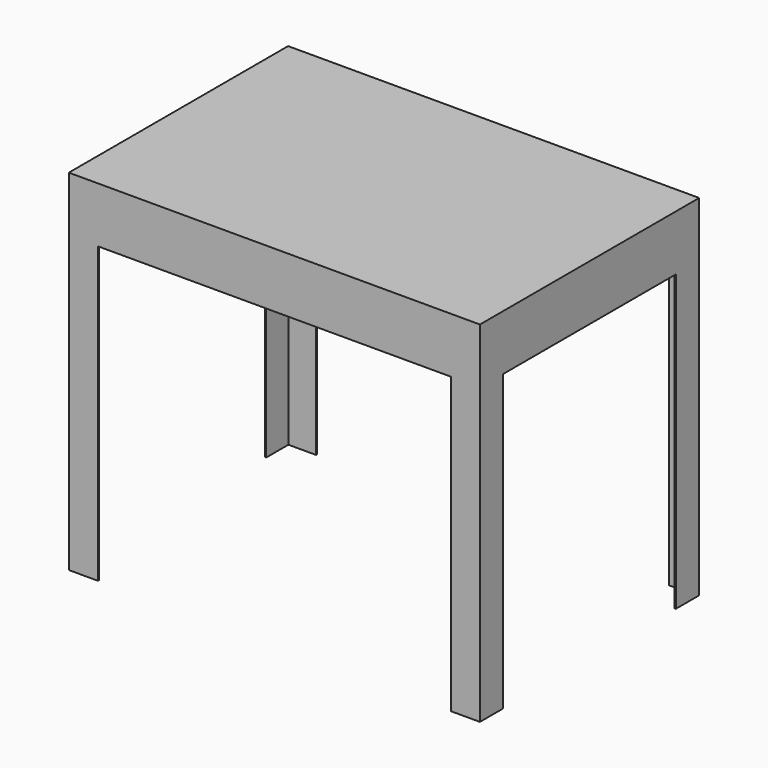
from build123d import *

# Parameters (mm, degrees)
F0_W     = 705
F0_H     = 470
F1_DEPTH = 95
F2_T     = -2.54
F4_DEPTH = 505


with BuildPart() as f1:
    # F0 (on Top) → F1 (new body)
    with BuildSketch(Plane.XY):
        Rectangle(F0_W, F0_H)
    extrude(amount=F1_DEPTH)

    # F2
    f2_openings = [f1.faces().sort_by_distance(p)[0] for p in [
        (0, 0, 0),
    ]]
    offset(amount=F2_T, openings=f2_openings)

    # F3 (on face) → F4 (join)
    with BuildSketch(Plane(origin=(0, 0, 0), x_dir=(1, 0, 0), z_dir=(0, 0, -1))):
        Polygon((352.5, 235), (302.5, 235), (302.5, 232.46), (349.96, 232.46), (349.96, 185), (352.5, 185), align=None)
        Polygon((-352.5, 235), (-352.5, 185), (-349.96, 185), (-349.96, 232.46), (-302.5, 232.46), (-302.5, 235), align=None)
        Polygon((-352.5, -185), (-352.5, -235), (-302.5, -235), (-302.5, -232.46), (-349.96, -232.46), (-349.96, -185), align=None)
        Polygon((302.5, -232.46), (302.5, -235), (352.5, -235), (352.5, -185), (349.96, -185), (349.96, -232.46), align=None)
    extrude(amount=F4_DEPTH)


solid = f1.part
